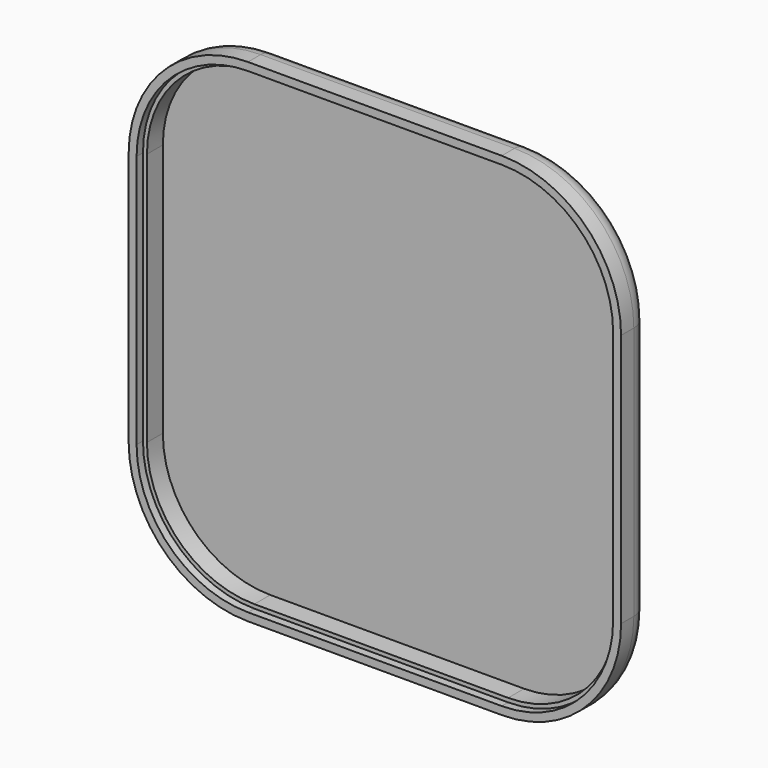
from build123d import *

# Parameters (mm, degrees)
F1_DEPTH = 4.5
F2_DEPTH = 3.5
F3_DEPTH = 1
F4_R     = 2.5


with BuildPart() as f1:
    # F0 (on Front) → F1 (new body)
    with BuildSketch(Plane.XZ):
        with BuildLine():
            Line((15.95, 30.95), (-15.95, 30.95))
            ThreePointArc((-15.95, 30.95), (-26.556602, 26.556602), (-30.95, 15.95))
            Line((-30.95, 15.95), (-30.95, -15.95))
            ThreePointArc((-30.95, -15.95), (-26.556602, -26.556602), (-15.95, -30.95))
            Line((-15.95, -30.95), (15.95, -30.95))
            ThreePointArc((15.95, -30.95), (26.556602, -26.556602), (30.95, -15.95))
            Line((30.95, -15.95), (30.95, 15.95))
            ThreePointArc((30.95, 15.95), (26.556602, 26.556602), (15.95, 30.95))
        make_face()
        with BuildLine():
            ThreePointArc((-29.949999, 15.95), (-25.849494, 25.849494), (-15.95, 29.949999))
            Line((-15.95, 29.949999), (15.95, 29.949999))
            ThreePointArc((15.95, 29.949999), (25.849494, 25.849494), (29.949999, 15.95))
            Line((29.949999, 15.95), (29.949999, -15.95))
            ThreePointArc((29.949999, -15.95), (25.849494, -25.849494), (15.95, -29.949999))
            Line((15.95, -29.949999), (-15.95, -29.949999))
            ThreePointArc((-15.95, -29.949999), (-25.849494, -25.849494), (-29.949999, -15.95))
            Line((-29.949999, -15.95), (-29.949999, 15.95))
        make_face(mode=Mode.SUBTRACT)
    extrude(amount=F1_DEPTH)

    # F0 (on Front) → F2 (join)
    with BuildSketch(Plane.XZ):
        with BuildLine():
            Line((15.95, 29.949999), (-15.95, 29.949999))
            ThreePointArc((-15.95, 29.949999), (-25.849494, 25.849494), (-29.949999, 15.95))
            Line((-29.949999, 15.95), (-29.949999, -15.95))
            ThreePointArc((-29.949999, -15.95), (-25.849494, -25.849494), (-15.95, -29.949999))
            Line((-15.95, -29.949999), (15.95, -29.949999))
            ThreePointArc((15.95, -29.949999), (25.849494, -25.849494), (29.949999, -15.95))
            Line((29.949999, -15.95), (29.949999, 15.95))
            ThreePointArc((29.949999, 15.95), (25.849494, 25.849494), (15.95, 29.949999))
        make_face()
        with BuildLine():
            ThreePointArc((-29.45, 15.95), (-25.495942, 25.495942), (-15.95, 29.45))
            Line((-15.95, 29.45), (15.95, 29.45))
            ThreePointArc((15.95, 29.45), (25.495942, 25.495942), (29.45, 15.95))
            Line((29.45, 15.95), (29.45, -15.95))
            ThreePointArc((29.45, -15.95), (25.495942, -25.495942), (15.95, -29.45))
            Line((15.95, -29.45), (-15.95, -29.45))
            ThreePointArc((-15.95, -29.45), (-25.495942, -25.495942), (-29.45, -15.95))
            Line((-29.45, -15.95), (-29.45, 15.95))
        make_face(mode=Mode.SUBTRACT)
    extrude(amount=F2_DEPTH)

    # F0 (on Front) → F3 (join)
    with BuildSketch(Plane.XZ):
        with BuildLine():
            Line((15.95, 29.45), (-15.95, 29.45))
            ThreePointArc((-15.95, 29.45), (-25.495942, 25.495942), (-29.45, 15.95))
            Line((-29.45, 15.95), (-29.45, -15.95))
            ThreePointArc((-29.45, -15.95), (-25.495942, -25.495942), (-15.95, -29.45))
            Line((-15.95, -29.45), (15.95, -29.45))
            ThreePointArc((15.95, -29.45), (25.495942, -25.495942), (29.45, -15.95))
            Line((29.45, -15.95), (29.45, 15.95))
            ThreePointArc((29.45, 15.95), (25.495942, 25.495942), (15.95, 29.45))
        make_face()
    extrude(amount=F3_DEPTH)

    # F4
    f4_edges = [f1.edges().sort_by_distance(p)[0] for p in [
        (30.95, 0, 0),
    ]]
    fillet(f4_edges, radius=F4_R)


solid = f1.part
